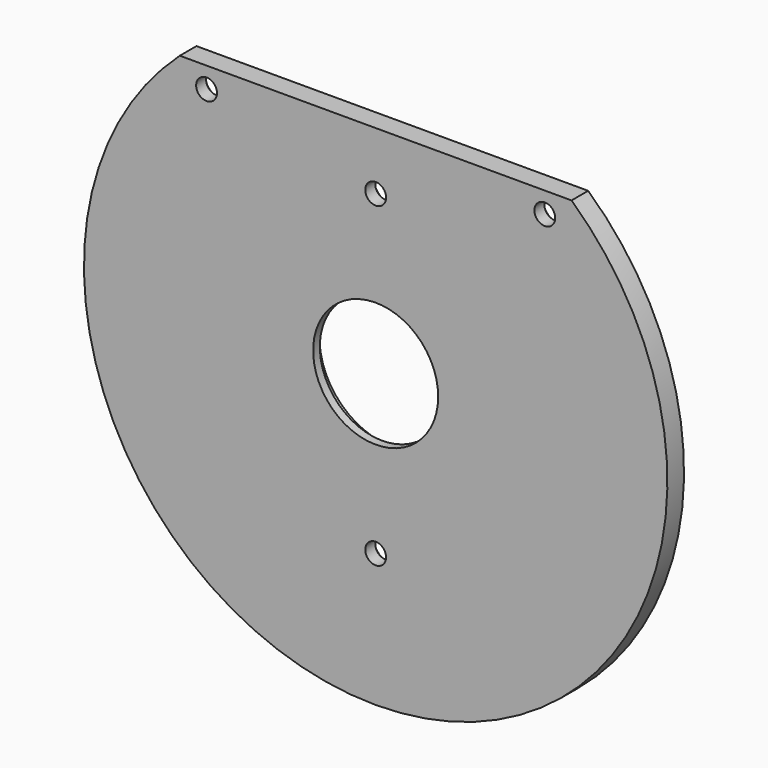
from build123d import *

# Parameters (mm, degrees)
F2_R           = 2.5
F2_R_2         = 17.5
F2_R_3         = 15
F3_DEPTH       = 5
F4_DEPTH       = 3
F5_D           = 5
F5_CSINK_D     = 9
F5_CSINK_ANGLE = 90


with BuildPart() as f3:
    # F2 (on Front) → F3 (new body)
    with BuildSketch(Plane.XZ):
        with BuildLine():
            Line((47, 51.8748493974), (-47, 51.8748493974))
            ThreePointArc((-47, 51.8748493974), (0, -70), (47, 51.8748493974))
        make_face()
        with Locations((0, -38)):
            Circle(F2_R, mode=Mode.SUBTRACT)
        with Locations((-40.5801490137, 46.8748493974)):
            Circle(F2_R, mode=Mode.SUBTRACT)
        Circle(F2_R_2, mode=Mode.SUBTRACT)
        with Locations((0, 38)):
            Circle(F2_R, mode=Mode.SUBTRACT)
        with Locations((40.5801490137, 46.8748493974)):
            Circle(F2_R, mode=Mode.SUBTRACT)
        with Locations((40.5801490137, 46.8748493974)):
            Circle(F2_R)
        with Locations((0, 38)):
            Circle(F2_R)
        with Locations((-40.5801490137, 46.8748493974)):
            Circle(F2_R)
        with Locations((0, -38)):
            Circle(F2_R)
        Circle(F2_R_2)
        Circle(F2_R_3, mode=Mode.SUBTRACT)
    extrude(amount=F3_DEPTH)

    # F2 (on Front) → F4 (cut)
    with BuildSketch(Plane.XZ):
        Circle(F2_R_2)
        Circle(F2_R_3, mode=Mode.SUBTRACT)
    extrude(amount=F4_DEPTH, mode=Mode.SUBTRACT)

    # F5 (through all)
    with Locations(Plane(origin=(0, 0, 0), x_dir=(1, 0, 0), z_dir=(0, 1, 0))):
        with Locations((-40.5801490137, -46.8748493974), (0, -38), (40.5801490137, -46.8748493974), (0, 38)):
            CounterSinkHole(F5_D / 2, F5_CSINK_D / 2, counter_sink_angle=F5_CSINK_ANGLE)


solid = f3.part
